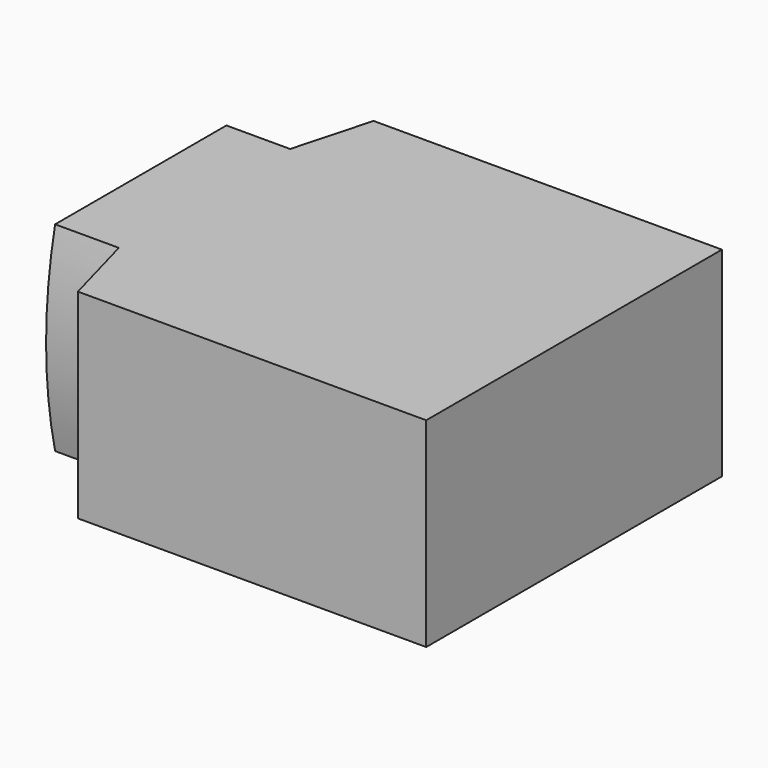
from build123d import *

# Parameters (mm, degrees)
PAD002_DEPTH = 15
SKETCH005_W  = 87
SKETCH005_H  = 47
SKETCH007_W  = 87
SKETCH007_H  = 47
PAD003_DEPTH = 82


with BuildPart() as part:
    # Sketch004 → Pad002 (new body)
    with BuildSketch(Plane.YZ):
        with BuildLine():
            Line((-25.2, 23.5), (25.2, 23.5))
            ThreePointArc((25.2, -23.5), (27.86, 0), (25.2, 23.5))
            Line((25.2, -23.5), (-25.2, -23.5))
            ThreePointArc((-25.2, 23.5), (-27.86, 0), (-25.2, -23.5))
        make_face()
    extrude(amount=PAD002_DEPTH)

    # Sketch006 (on Face6 of Pad002) → AdditiveLoft001 section 0
    with BuildSketch(Plane.YZ.offset(15)):
        with BuildLine():
            Line((-25.2, 23.5), (25.2, 23.5))
            ThreePointArc((25.2, -23.5), (27.86, 0), (25.2, 23.5))
            Line((-25.2, -23.5), (25.2, -23.5))
            ThreePointArc((-25.2, 23.5), (-27.86, 0), (-25.2, -23.5))
        make_face()
    # Sketch005 → AdditiveLoft001 section 1
    with BuildSketch(Plane.YZ.offset(20)):
        Rectangle(SKETCH005_W, SKETCH005_H)
    loft()

    # Sketch007 (on Face10 of AdditiveLoft001) → Pad003 (join)
    with BuildSketch(Plane.YZ.offset(20)):
        Rectangle(SKETCH007_W, SKETCH007_H)
    extrude(amount=PAD003_DEPTH)


solid = part.part
